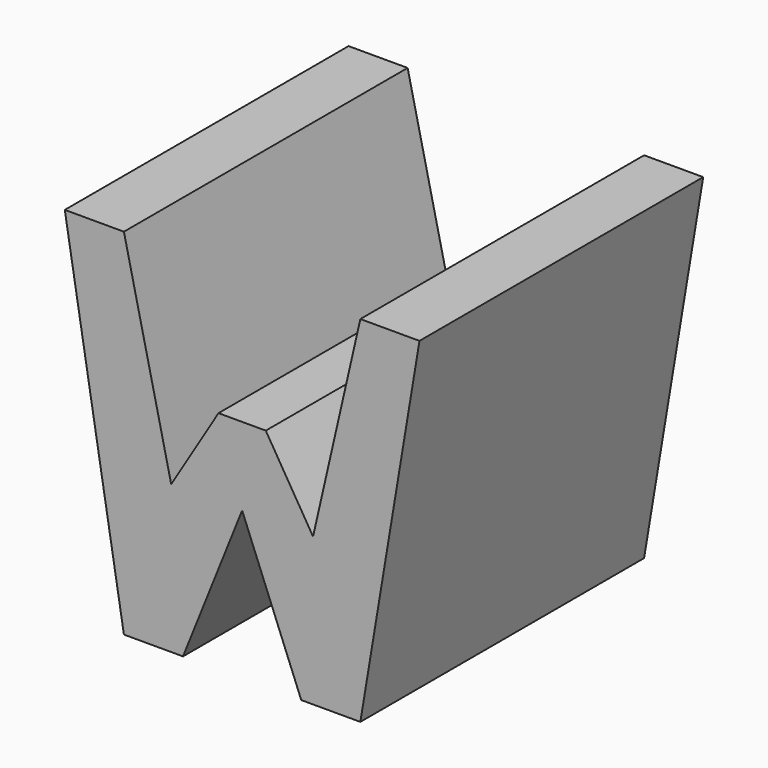
from build123d import *

# Parameters (mm, degrees)
F2_W     = 38.1
F2_H     = 38.099996
F3_DEPTH = 38.1
F4_DEPTH = 38.1


with BuildPart() as f3:
    # F2 (on offset) → F3 (new body)
    with BuildSketch(Plane.YZ.offset(38.1)):
        with Locations((-19.05, 19.049998)):
            Rectangle(F2_W, F2_H)
    extrude(amount=-F3_DEPTH)

    # F0 (on Front) → F4 (cut)
    with BuildSketch(Plane.XZ):
        Polygon((0, 38.099996), (0, 0), (6.35, 0), align=None)
        Polygon((31.75, 38.099996), (6.35, 38.099996), (11.43, 15.875), (16.51, 24.244545), (21.59, 24.244545), (26.67, 15.875), align=None)
        Polygon((38.1, 0), (38.1, 38.099996), (31.75, 0), align=None)
        Polygon((19.05, 15.875), (12.7, 0), (25.4, 0), align=None)
    extrude(amount=F4_DEPTH, mode=Mode.SUBTRACT)


solid = f3.part
